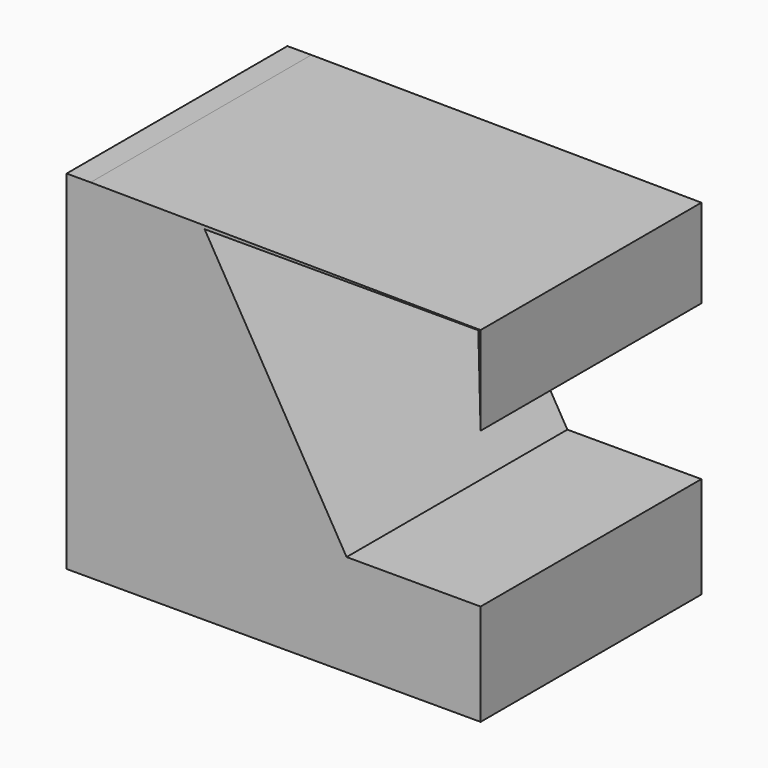
from build123d import *

# Parameters (mm, degrees)
F1_DEPTH = 25.4
F3_DEPTH = 25.401


with BuildPart() as f1:
    # F0 (on Front) → F1 (new body)
    with BuildSketch(Plane.XZ):
        Polygon((2.206567, 32.044211), (0, 32.044211), (0, 0), (38.1, 0), (38.1, 31.75), align=None)
    extrude(amount=F1_DEPTH)

    # F2 (on Front) → F3 (cut, through all)
    with BuildSketch(Plane.XZ):
        Polygon((25.766958, 9.347903), (38.466958, 9.347903), (37.892044, 31.662248), (12.7, 31.662248), align=None)
    extrude(amount=F3_DEPTH, mode=Mode.SUBTRACT)


solid = f1.part
